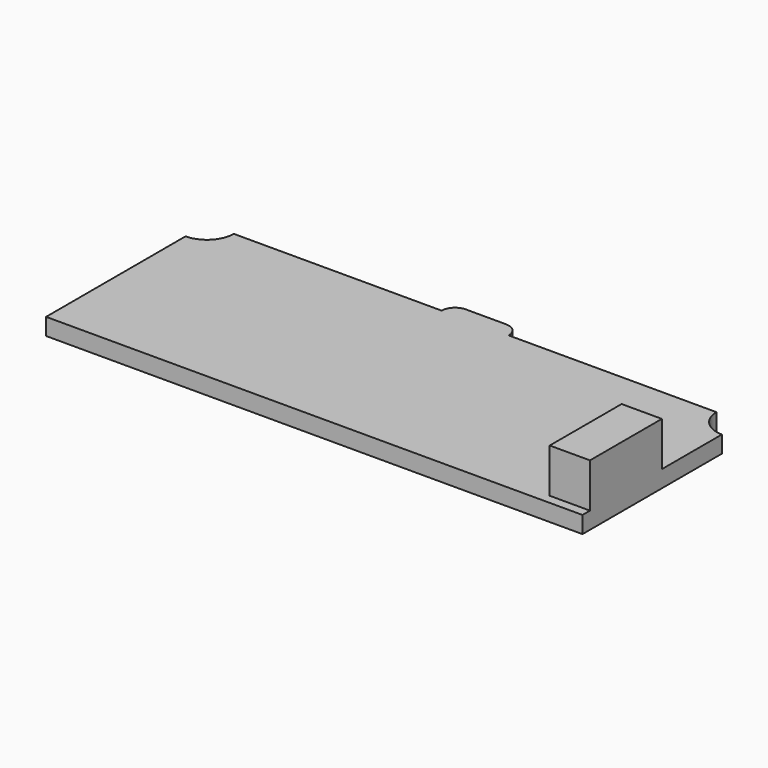
from build123d import *

# Parameters (mm, degrees)
F1_DEPTH = 1.6
F2_W     = 3.81
F2_H     = 8.509
F3_DEPTH = 4.191


with BuildPart() as f1:
    # F0 (on Top) → F1 (new body)
    with BuildSketch(Plane.XY):
        with BuildLine():
            Line((-25.4, 16.51), (-25.4, 0))
            Line((-25.4, 0), (25.4, 0))
            Line((25.4, 0), (25.4, 16.51))
            ThreePointArc((25.4, 16.51), (23.603949, 17.253949), (22.86, 19.05))
            Line((22.86, 19.05), (3.175, 19.05))
            ThreePointArc((3.175, 19.05), (2.803026, 19.948026), (1.905, 20.32))
            Line((1.905, 20.32), (-1.905, 20.32))
            ThreePointArc((-1.905, 20.32), (-2.803026, 19.948026), (-3.175, 19.05))
            Line((-3.175, 19.05), (-22.86, 19.05))
            ThreePointArc((-22.86, 19.05), (-23.603949, 17.253949), (-25.4, 16.51))
        make_face()
    extrude(amount=F1_DEPTH)

    # F2 (on face) → F3 (join)
    with BuildSketch(Plane.XY.offset(1.6)):
        with Locations((23.495, 5.1435)):
            Rectangle(F2_W, F2_H)
    extrude(amount=F3_DEPTH)


solid = f1.part
